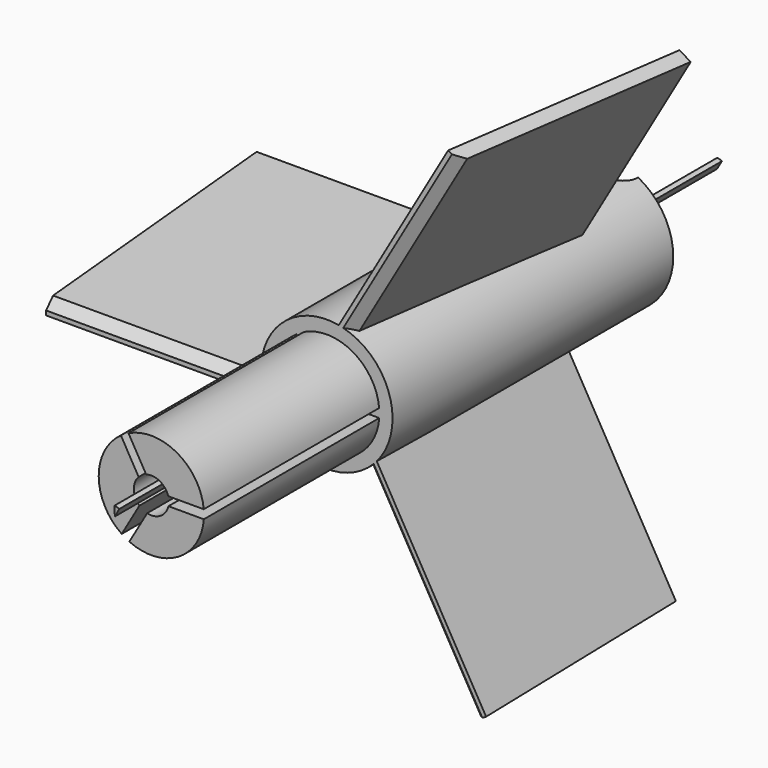
from build123d import *

# Parameters (mm, degrees)
F0_R           = 6
F0_R_2         = 5
F0_R_3         = 2
F1_DEPTH       = 25
F1_DEPTH_BACK  = 5
F0_R_4         = 7.5
F2_DEPTH       = 40
F4_DEPTH       = 25
F5_W           = 25
F5_H           = 1.5
F9_SIZE        = 1
F10_ANGLE      = 30
F11_COUNT      = 3
F12_R          = 3.5
F13_DEPTH      = 25
F13_DEPTH_BACK = 25


with BuildPart() as f1:
    # F0 (on Front) → F1 (new body, two sides)
    with BuildSketch(Plane.XZ) as f1_sk:
        Circle(F0_R)
        Circle(F0_R_2, mode=Mode.SUBTRACT)
        Circle(F0_R_2)
        Circle(F0_R_3, mode=Mode.SUBTRACT)
    extrude(amount=F1_DEPTH)
    extrude(f1_sk.sketch, amount=-F1_DEPTH_BACK)

    # F0 (on Front) → F2 (join)
    with BuildSketch(Plane.XZ):
        Circle(F0_R_4)
        Circle(F0_R, mode=Mode.SUBTRACT)
        Circle(F0_R)
        Circle(F0_R_2, mode=Mode.SUBTRACT)
    extrude(amount=-F2_DEPTH)

    # F3 (on Front) → F4 (cut)
    with BuildSketch(Plane.XZ):
        Polygon((0, 0), (0, 0.5562636638), (0.1912236103, 0.5562636638), (-3.1157130603, 6.2840459946), (-3.981738464, 5.7840459946), (-0.5773502692, -0.1125273276), (-0.3842869397, 0.2218681681), align=None)
        Polygon((7, 0.5562636638), (0.1912236103, 0.5562636638), (0.3842869397, 0.2218681681), (0, 0), (0.481738464, -0.2781318319), (0.3861266589, -0.4437363362), (7, -0.4437363362), align=None)
        Polygon((0, -0.4437363362), (0, 0), (-0.481738464, -0.2781318319), (-0.5773502692, -0.1125273276), (-3.8842869397, -5.8403096584), (-3.018261536, -6.3403096584), (0.3861266589, -0.4437363362), align=None)
    extrude(amount=F4_DEPTH, mode=Mode.SUBTRACT)

    # F7: sweep along a path in F6
    with BuildLine(Plane.YZ) as f7_path:
        Line((0, -1.7128828858), (30, 1.0140511738))
    # F5 (on Front) → F7 (sweep)
    with BuildSketch(Plane.XZ):
        with Locations((-19.5, -1.75)):
            Rectangle(F5_W, F5_H)
    sweep(path=f7_path.line)

    # F9
    f9_edges = [f1.edges().sort_by_distance(p)[0] for p in [
        (-19.716517, 0, -1),
    ]]
    chamfer(f9_edges, length=F9_SIZE)

    # F11: F1 ×3 about axis
    f11_axis = Axis((0, 12.7106998116, 0), (0, 1, 0))


with BuildPart() as f10:
    # F8 (on Right) → F10 (revolve)
    with BuildSketch(Plane.YZ):
        Polygon((-30.2714016289, 1.1140255956), (-30.1947593689, 0), (55.6161589921, 0), (55.6161589921, 1.1140255956), align=None)
    revolve(axis=Axis((0, 12.7106998116, 0), (0, 1, 0)), revolution_arc=F10_ANGLE)


with BuildPart() as f1_1:
    add(f1.part)
    for i in range(1, F11_COUNT):
        add(f1.part.rotate(f11_axis, i * 360 / F11_COUNT))

    # F12 (on Top) → F13 (cut, two sides)
    with BuildSketch(Plane.XY) as f13_sk:
        with Locations((0, 40)):
            Circle(F12_R)
    extrude(amount=-F13_DEPTH, mode=Mode.SUBTRACT)
    extrude(f13_sk.sketch, amount=F13_DEPTH_BACK, mode=Mode.SUBTRACT)


solid = Compound([f10.part, f1_1.part])
